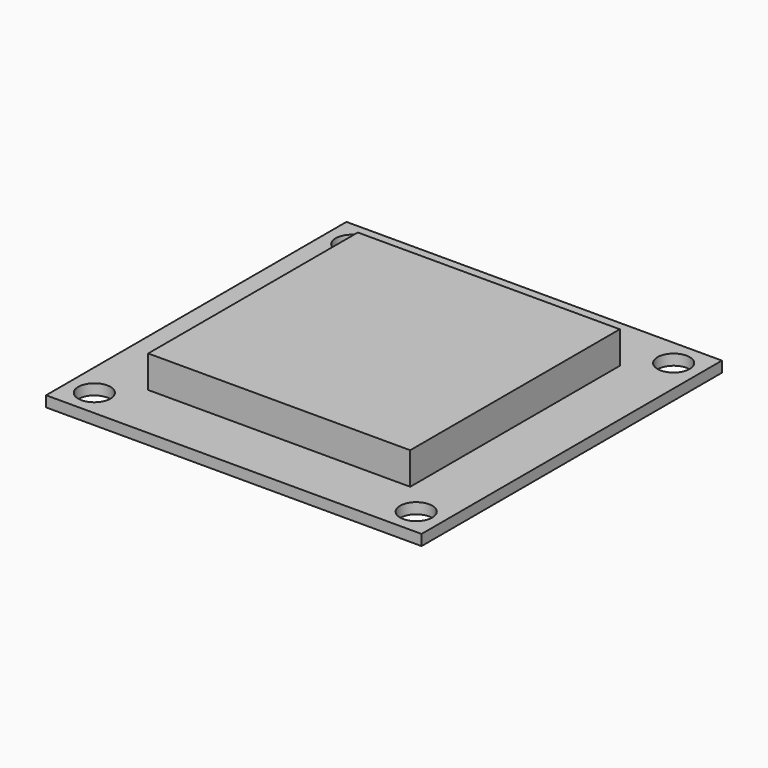
from build123d import *

# Parameters (mm, degrees)
F0_W     = 35
F0_H     = 35
F1_DEPTH = 1
F3_D     = 3
F4_W     = 24.421909
F4_H     = 24.421909
F5_DEPTH = 3


with BuildPart() as f1:
    # F0 (on Top) → F1 (new body)
    with BuildSketch(Plane.XY):
        with Locations((0.242682, -0.403982)):
            Rectangle(F0_W, F0_H)
    extrude(amount=F1_DEPTH)

    # F3 (through all)
    with Locations(Plane.XY.offset(1)):
        with Locations((-14.757318, 14.596018), (-14.757318, -15.403982), (15.242682, -15.403982), (15.242682, 14.596018)):
            Hole(F3_D / 2)

    # F4 (on face) → F5 (join)
    with BuildSketch(Plane.XY.offset(1)):
        with Locations((0.242682, -0.403982)):
            Rectangle(F4_W, F4_H)
    extrude(amount=F5_DEPTH)


solid = f1.part
